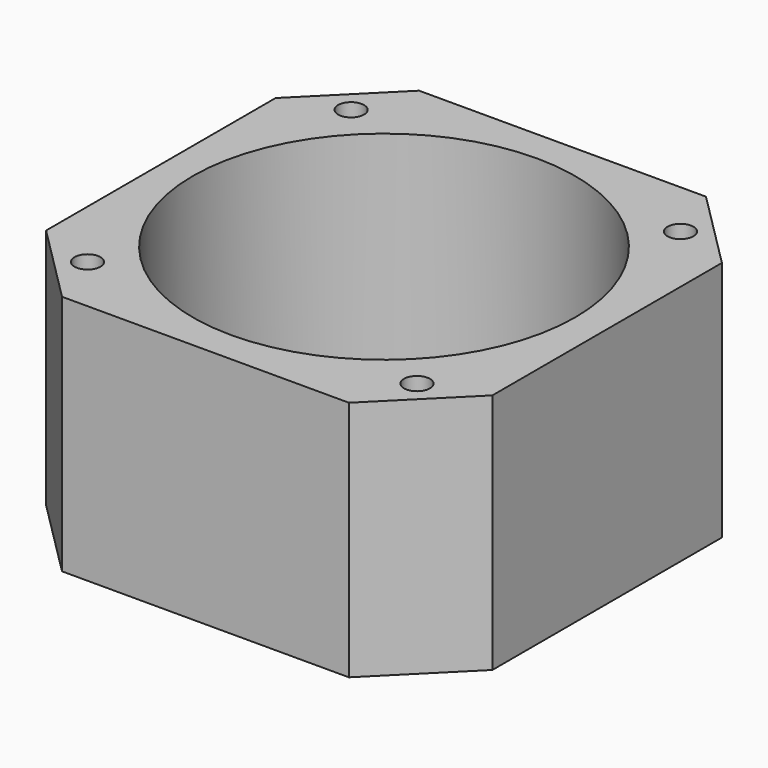
from build123d import *

# Parameters (mm, degrees)
SKETCH005_W     = 42
SKETCH005_H     = 42
PAD004_DEPTH    = 22.75
CHAMFER001_SIZE = 7.5
SKETCH008_R     = 1.22
POCKET001_DEPTH = 22.751
SKETCH012_R     = 18
POCKET006_DEPTH = 22.751


with BuildPart() as part:
    # Sketch005 → Pad004 (new body)
    with BuildSketch(Plane.XY):
        Rectangle(SKETCH005_W, SKETCH005_H)
    extrude(amount=PAD004_DEPTH)

    # Chamfer001
    chamfer001_edges = [part.edges().sort_by_distance(p)[0] for p in [
        (-21, -21, 11.375),
        (-21, 21, 11.375),
        (21, -21, 11.375),
        (21, 21, 11.375),
    ]]
    chamfer(chamfer001_edges, length=CHAMFER001_SIZE)

    # Sketch008 (on Face2 of Chamfer001) → Pocket001 (cut, through all)
    with BuildSketch(Plane(origin=(0, 0, 0), x_dir=(1, 0, 0), z_dir=(0, 0, -1))):
        with Locations((-15.5, 15.5)):
            Circle(SKETCH008_R)
        with Locations((15.5, 15.5)):
            Circle(SKETCH008_R)
        with Locations((15.5, -15.5)):
            Circle(SKETCH008_R)
        with Locations((-15.5, -15.5)):
            Circle(SKETCH008_R)
    extrude(amount=-POCKET001_DEPTH, mode=Mode.SUBTRACT)

    # Sketch012 (on Face5 of Pocket001) → Pocket006 (cut, through all)
    with BuildSketch(Plane.XY.offset(22.75)):
        Circle(SKETCH012_R)
    extrude(amount=-POCKET006_DEPTH, mode=Mode.SUBTRACT)


with BuildPart() as part_1:
    # Body003 placement: moved
    add(part.part.moved(Location((0, 0, 9.6))))


solid = part_1.part
